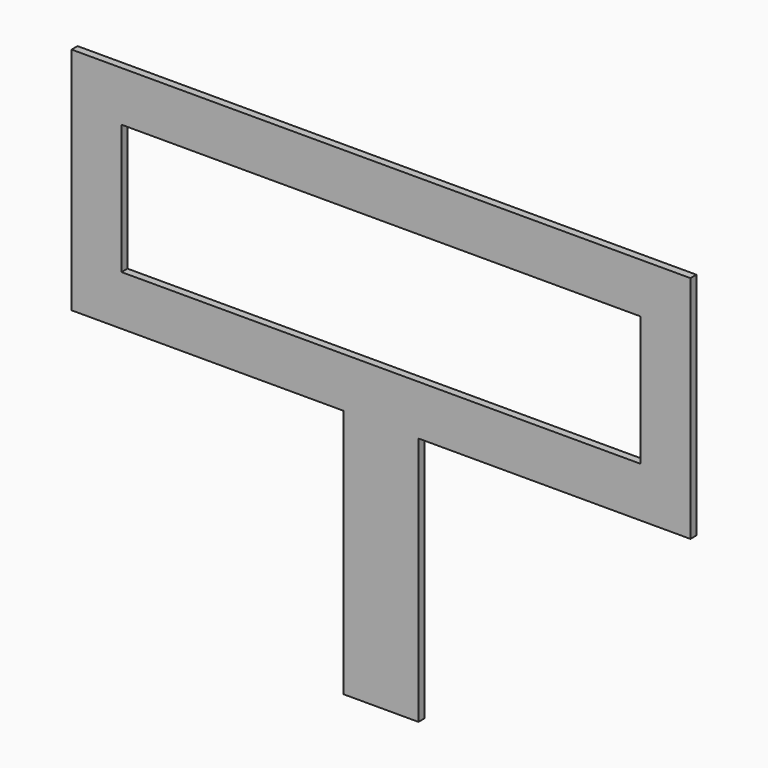
from build123d import *

# Parameters (mm, degrees)
F0_W     = 208
F0_H     = 52
F1_DEPTH = 3


with BuildPart() as f1:
    # F0 (on Front) → F1 (new body)
    with BuildSketch(Plane.XZ):
        Polygon((15, -46), (124, -46), (124, 46), (-124, 46), (-124, -46), (-15, -46), (-15, -146), (15, -146), align=None)
        Rectangle(F0_W, F0_H, mode=Mode.SUBTRACT)
    extrude(amount=F1_DEPTH)


solid = f1.part
